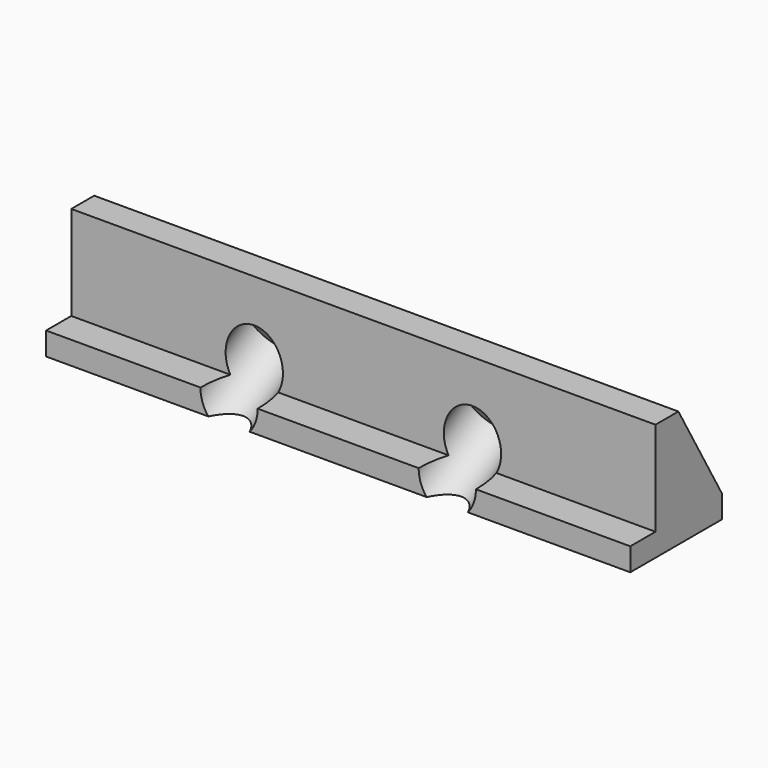
from build123d import *

# Parameters (mm, degrees)
PAD004_DEPTH            = 102
SKETCH006_R             = 2.75
POCKET001_DEPTH         = 19.3215080757
SKETCH007_R             = 5
POCKET002_DEPTH         = 14.3215080757
BODY002_PLACEMENT_ANGLE = 180


with BuildPart() as part:
    # Sketch004 → Pad004 (new body)
    with BuildSketch(Plane.YZ):
        Polygon((-5.5, 4), (-5.5, 20.4544826719), (-10.5, 20.4544826719), (-20, 4), (-20, 0), (0, 0), (0, 4), align=None)
    extrude(amount=-PAD004_DEPTH)

    # Sketch006 (on Face3 of Pad004) → Pocket001 (cut, through all)
    with BuildSketch(Plane(origin=(0, -16.7320508076, 9.6602540378), x_dir=(0, -0.5, -0.8660254038), z_dir=(0, -0.8660254038, 0.5))):
        with Locations((-3.4641016151, -31.95)):
            Circle(SKETCH006_R)
        with Locations((-3.4641016151, -70.05)):
            Circle(SKETCH006_R)
    extrude(amount=-POCKET001_DEPTH, mode=Mode.SUBTRACT)

    # Sketch007 (on Face10 of Pocket001) → Pocket002 (cut, through all)
    with BuildSketch(Plane(origin=(0, -12.4019237886, 7.1602540378), x_dir=(0, -0.5, -0.8660254038), z_dir=(0, -0.8660254038, 0.5))):
        with Locations((-3.4641016151, -31.95)):
            Circle(SKETCH007_R)
        with Locations((-3.4641016151, -70.05)):
            Circle(SKETCH007_R)
    extrude(amount=-POCKET002_DEPTH, mode=Mode.SUBTRACT)


with BuildPart() as part_1:
    # Body002 placement: moved
    add(part.part.moved(Location((2, 35, 36))).rotate(Axis((2, 35, 36), (0, 0, 1)), BODY002_PLACEMENT_ANGLE))


solid = part_1.part
